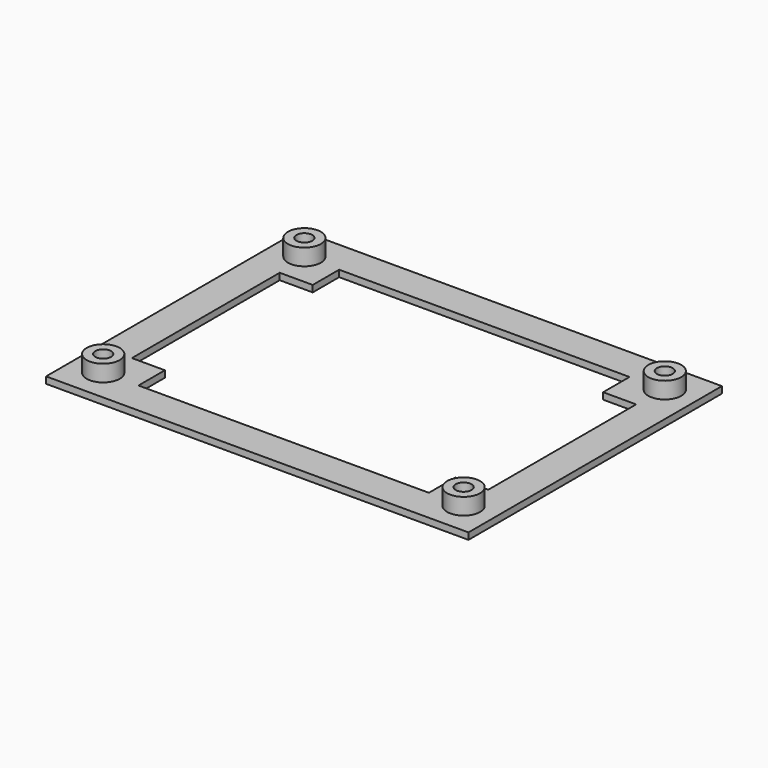
from build123d import *

# Parameters (mm, degrees)
SKETCH_W        = 64
SKETCH_H        = 48
PAD_DEPTH       = 1
POCKET_DEPTH    = 1.001
SKETCH002_R     = 2.5
PAD001_DEPTH    = 2.5
SKETCH003_R     = 1.2
POCKET001_DEPTH = 2.5


with BuildPart() as part:
    # Sketch → Pad (new body)
    with BuildSketch(Plane.XY):
        Rectangle(SKETCH_W, SKETCH_H)
    extrude(amount=PAD_DEPTH)

    # Sketch001 → Pocket (cut, through all)
    with BuildSketch(Plane.XY.offset(1)):
        Polygon((-27, 14), (-27, -14), (-22, -14), (-22, -19), (22, -19), (22, -14), (27, -14), (27, 14), (22, 14), (22, 19), (-22, 19), (-22, 14), align=None)
    extrude(amount=-POCKET_DEPTH, mode=Mode.SUBTRACT)

    # Sketch002 → Pad001 (new body)
    with BuildSketch(Plane.XY.offset(1)):
        with Locations((-27.305, 19.05)):
            Circle(SKETCH002_R)
        with Locations((-27.305, -19.05)):
            Circle(SKETCH002_R)
        with Locations((27.305, 19.05)):
            Circle(SKETCH002_R)
        with Locations((27.305, -19.05)):
            Circle(SKETCH002_R)
    extrude(amount=PAD001_DEPTH)

    # Sketch003 → Pocket001 (cut)
    with BuildSketch(Plane.XY.offset(3.5)):
        with Locations((27.305, 19.05)):
            Circle(SKETCH003_R)
        with Locations((-27.305, -19.05)):
            Circle(SKETCH003_R)
        with Locations((27.305, -19.05)):
            Circle(SKETCH003_R)
        with Locations((-27.305, 19.05)):
            Circle(SKETCH003_R)
    extrude(amount=-POCKET001_DEPTH, mode=Mode.SUBTRACT)


solid = part.part
